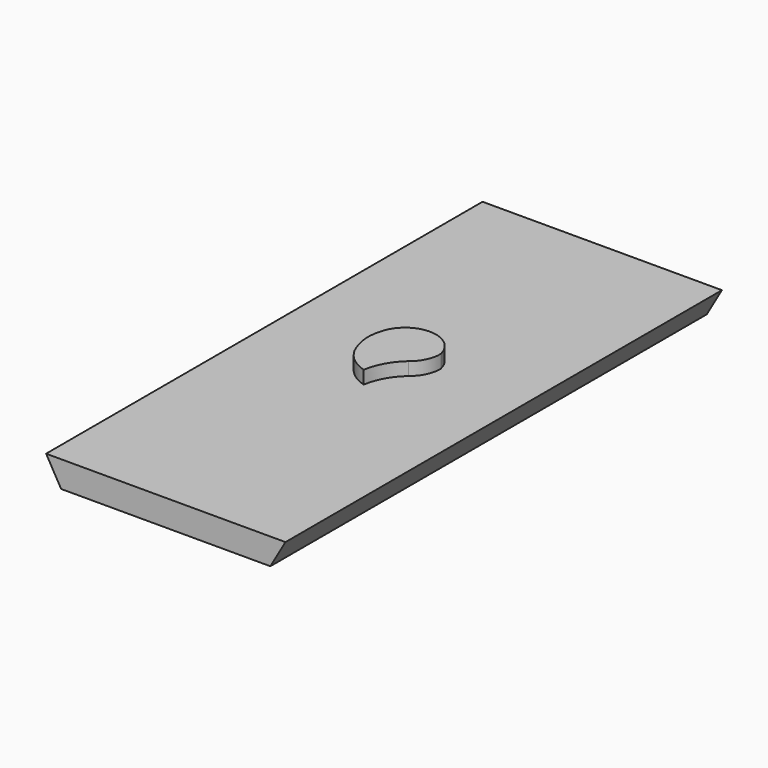
from build123d import *

# Parameters (mm, degrees)
F1_DEPTH  = 125
F2_R      = 1.85
F3_DEPTH  = 4
F5_DEPTH  = 3
F7_R      = 6
F8_DEPTH  = 25
F10_R     = 6
F11_DEPTH = 25


with BuildPart() as f1:
    # F0 (on Front) → F1 (new body)
    with BuildSketch(Plane.XZ):
        Polygon((27.424138, 47.5), (-27.424138, 47.5), (-23.960036, 41.5), (23.960036, 41.5), align=None)
    extrude(amount=F1_DEPTH)

    # F2 (on face) → F3 (cut)
    with BuildSketch(Plane(origin=(0, 0, 41.5), x_dir=(1, 0, 0), z_dir=(0, 0, -1))):
        with BuildLine():
            ThreePointArc((-13.830018, 120), (-11.980018, 118.15), (-10.130018, 120))
            Line((-10.130018, 120), (-13.830018, 120))
        make_face()
        with BuildLine():
            Line((-13.830018, 120), (-10.130018, 120))
            ThreePointArc((-10.130018, 120), (-11.980018, 121.85), (-13.830018, 120))
        make_face()
        with Locations((11.980018, 120)):
            Circle(F2_R)
        with BuildLine():
            ThreePointArc((-13.830018, 23), (-11.980018, 21.15), (-10.130018, 23))
            Line((-10.130018, 23), (-13.830018, 23))
        make_face()
        with BuildLine():
            Line((-13.830018, 23), (-10.130018, 23))
            ThreePointArc((-10.130018, 23), (-11.980018, 24.85), (-13.830018, 23))
        make_face()
        with Locations((11.980018, 23)):
            Circle(F2_R)
    extrude(amount=-F3_DEPTH, mode=Mode.SUBTRACT)

    # F4 (on face) → F5 (join)
    with BuildSketch(Plane.XY.offset(47.5)):
        with BuildLine():
            ThreePointArc((4.419879, -61.002997), (6.484743, -58.434913), (7.172588, -55.212246))
            ThreePointArc((7.172588, -55.212246), (0.243912, -49.679184), (-6.684764, -55.212246))
            ThreePointArc((-6.684764, -55.212246), (-7.10843, -58.494572), (-6.503523, -61.748377))
            ThreePointArc((-6.503523, -61.748377), (-4.034953, -66.068801), (0.243912, -68.608727))
            ThreePointArc((0.243912, -68.608727), (1.663957, -64.439127), (4.419879, -61.002997))
        make_face()
    extrude(amount=F5_DEPTH)

    # F7 (on face) → F8 (cut)
    with BuildSketch(Plane(origin=(-23.960036, 0, 41.5), x_dir=(0.866025, 0, 0.5), z_dir=(0.5, 0, -0.866025))):
        with Locations((0, 62.5)):
            Circle(F7_R)
    extrude(amount=F8_DEPTH, mode=Mode.SUBTRACT)

    # F10 (on face) → F11 (cut)
    with BuildSketch(Plane(origin=(23.960036, 0, 41.5), x_dir=(0.866025, 0, -0.5), z_dir=(0.5, 0, 0.866025))):
        with Locations((0, -62.5)):
            Circle(F10_R)
    extrude(amount=-F11_DEPTH, mode=Mode.SUBTRACT)


solid = f1.part
